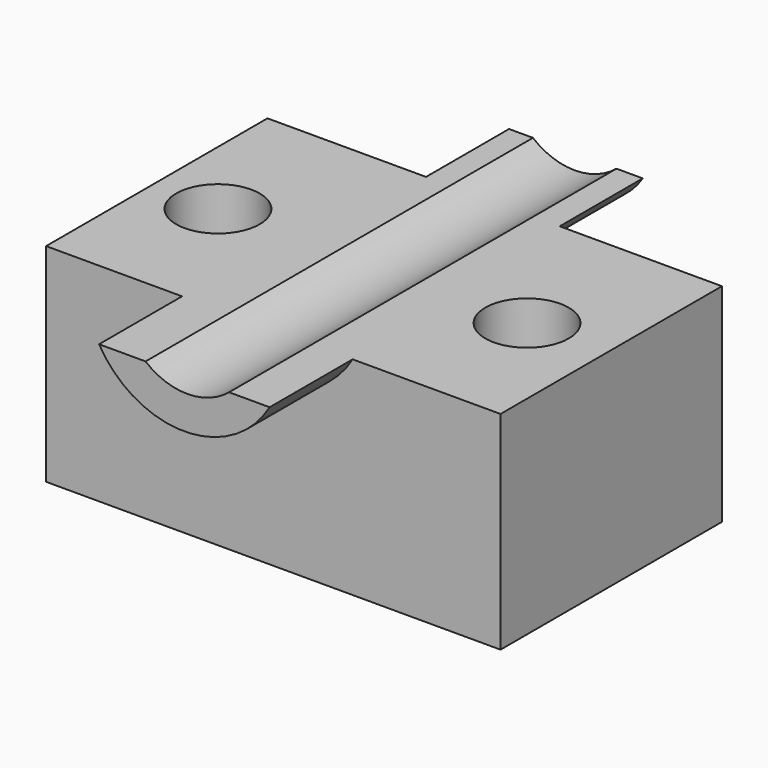
from build123d import *

# Parameters (mm, degrees)
F0_W     = 111.2547814846
F0_H     = 67.745693028
F1_DEPTH = 50.8
F3_DEPTH = 127
F4_DEPTH = 25.4
F6_DEPTH = 25.4
F7_R     = 10.2195358779
F8_DEPTH = 127


with BuildPart() as f1:
    # F0 (on Top) → F1 (new body)
    with BuildSketch(Plane.XY):
        with Locations((1.1680275202, 1.3140328228)):
            Rectangle(F0_W, F0_H)
    extrude(amount=F1_DEPTH)

    # F2 (on face) → F3 (cut)
    with BuildSketch(Plane.XZ.offset(32.5588136911)):
        with BuildLine():
            Line((10.6582669541, 50.8), (-9.7822453827, 50.8))
            ThreePointArc((-9.7822453827, 50.8), (0.4380107857, 47.116543464), (10.6582669541, 50.8))
        make_face()
    extrude(amount=-F3_DEPTH, mode=Mode.SUBTRACT)

    # F2 (on face) → F4 (join)
    with BuildSketch(Plane.XZ.offset(32.5588136911)):
        with BuildLine():
            ThreePointArc((10.6582669541, 50.8), (0.4380107857, 47.116543464), (-9.7822453827, 50.8))
            Line((-9.7822453827, 50.8), (-21.1705304682, 50.8))
            ThreePointArc((-21.1705304682, 50.8), (-0.2920087427, 38.8142078712), (20.5865129828, 50.8))
            Line((20.5865129828, 50.8), (10.6582669541, 50.8))
        make_face()
    extrude(amount=F4_DEPTH)

    # F5 (on face) → F6 (join)
    with BuildSketch(Plane(origin=(0, 35.1868793368, 0), x_dir=(-1, 0, 0), z_dir=(0, 1, 0))):
        with BuildLine():
            Line((-10.6582669541, 50.8), (-17.0911587775, 50.8))
            ThreePointArc((-17.0911587775, 50.8), (-0.7258458063, 41.8226759797), (15.6394671649, 50.8))
            Line((15.6394671649, 50.8), (9.7822453827, 50.8))
            ThreePointArc((9.7822453827, 50.8), (-0.4380107857, 47.116543464), (-10.6582669541, 50.8))
        make_face()
    extrude(amount=F6_DEPTH)

    # F7 (on face) → F8 (cut)
    with BuildSketch(Plane.XY.offset(50.8)):
        with Locations((-38.438539952, 0)):
            Circle(F7_R)
        with Locations((37.2335724533, 0)):
            Circle(F7_R)
    extrude(amount=-F8_DEPTH, mode=Mode.SUBTRACT)


solid = f1.part
